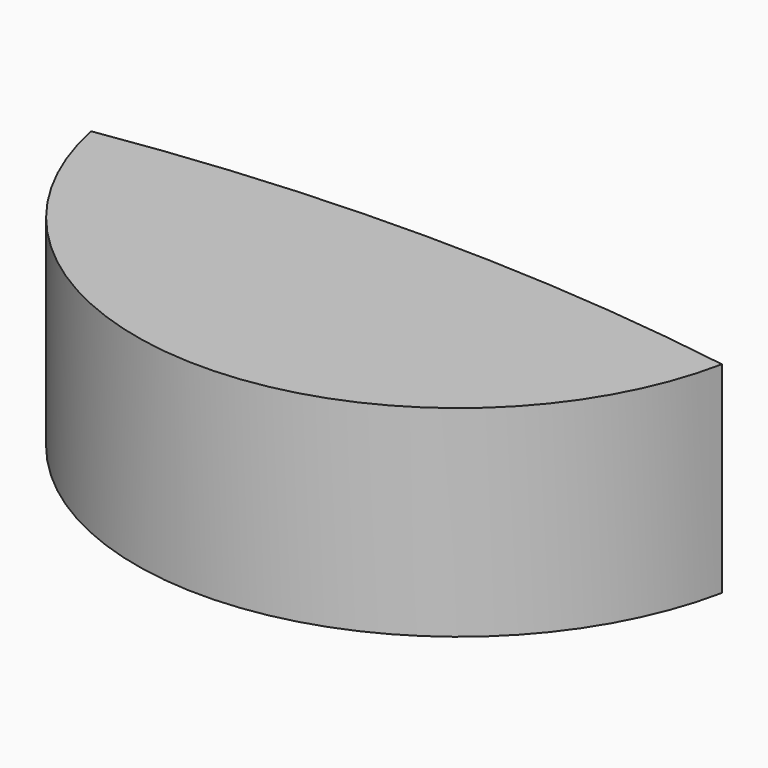
from build123d import *

# Parameters (mm, degrees)
CYLINDER018_R     = 50
CYLINDER018_DEPTH = 10
CYLINDER017_R     = 8
CYLINDER017_DEPTH = 5


with BuildPart() as cylinder019:
    # Cylinder018 → Cylinder018 (new body)
    with BuildSketch(Plane.XY):
        Circle(CYLINDER018_R)
    extrude(amount=CYLINDER018_DEPTH)


with BuildPart() as common:
    # Cylinder017 → Cylinder017 (new body)
    with BuildSketch(Plane(origin=(0, 51, 0), x_dir=(1, 0, 0), z_dir=(0, 0, 1))):
        Circle(CYLINDER017_R)
    extrude(amount=CYLINDER017_DEPTH)

    # Common: intersect Cylinder019
    add(cylinder019.part, mode=Mode.INTERSECT)


solid = common.part
